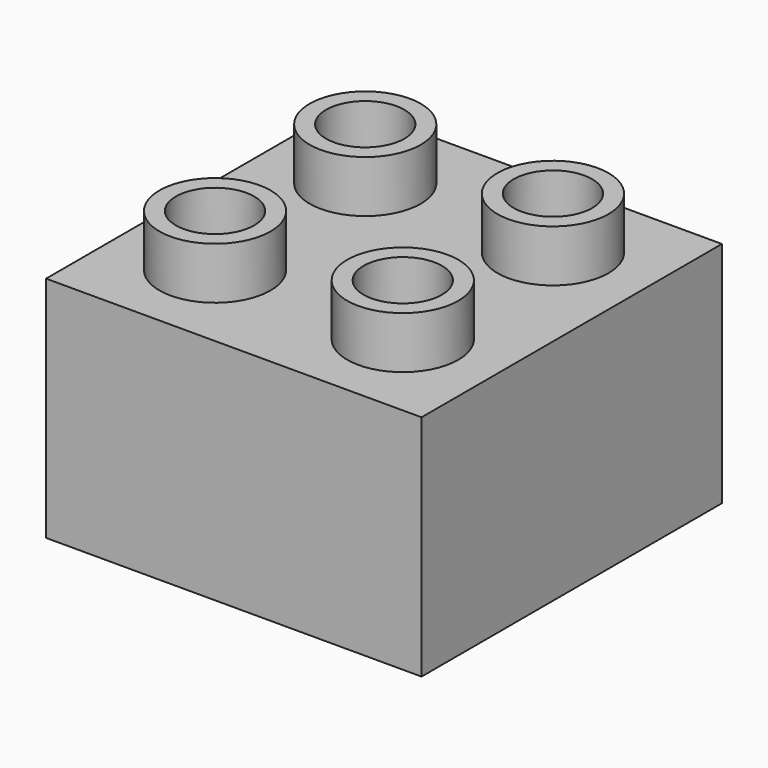
from build123d import *

# Parameters (mm, degrees)
F0_W     = 31.75
F0_H     = 31.75
F1_DEPTH = 19.304
F2_R     = 4.699
F2_R_2   = 3.3147
F3_DEPTH = 4.3942
F4_W     = 29.70818
F4_H     = 30.016836
F5_DEPTH = 17.78
F7_R     = 6.6421
F7_R_2   = 5.2705
F8_DEPTH = 17.653


with BuildPart() as f1:
    # F0 (on Top) → F1 (new body)
    with BuildSketch(Plane.XY):
        with Locations((46.295215, -52.843441)):
            Rectangle(F0_W, F0_H)
    extrude(amount=F1_DEPTH)

    # F2 (on face) → F3 (join)
    with BuildSketch(Plane.XY.offset(19.304)):
        with Locations((38.357715, -44.905941)):
            Circle(F2_R)
        with Locations((38.357715, -44.905941)):
            Circle(F2_R_2, mode=Mode.SUBTRACT)
        with Locations((54.232715, -44.905941)):
            Circle(F2_R)
        with Locations((54.232715, -44.905941)):
            Circle(F2_R_2, mode=Mode.SUBTRACT)
        with Locations((54.232715, -60.780941)):
            Circle(F2_R)
        with Locations((54.232715, -60.780941)):
            Circle(F2_R_2, mode=Mode.SUBTRACT)
        with Locations((38.357715, -60.780941)):
            Circle(F2_R)
        with Locations((38.357715, -60.780941)):
            Circle(F2_R_2, mode=Mode.SUBTRACT)
    extrude(amount=F3_DEPTH)

    # F4 (on face) → F5 (cut)
    with BuildSketch(Plane(origin=(0, 0, 0), x_dir=(1, 0, 0), z_dir=(0, 0, -1))):
        with Locations((46.23173, 52.90393)):
            Rectangle(F4_W, F4_H)
    extrude(amount=-F5_DEPTH, mode=Mode.SUBTRACT)

    # F7 (on face) → F8 (join)
    with BuildSketch(Plane(origin=(0, 0, 17.78), x_dir=(1, 0, 0), z_dir=(0, 0, -1))):
        with Locations((46.295215, 52.843441)):
            Circle(F7_R)
        with Locations((46.295215, 52.843441)):
            Circle(F7_R_2, mode=Mode.SUBTRACT)
    extrude(amount=F8_DEPTH)


solid = f1.part
